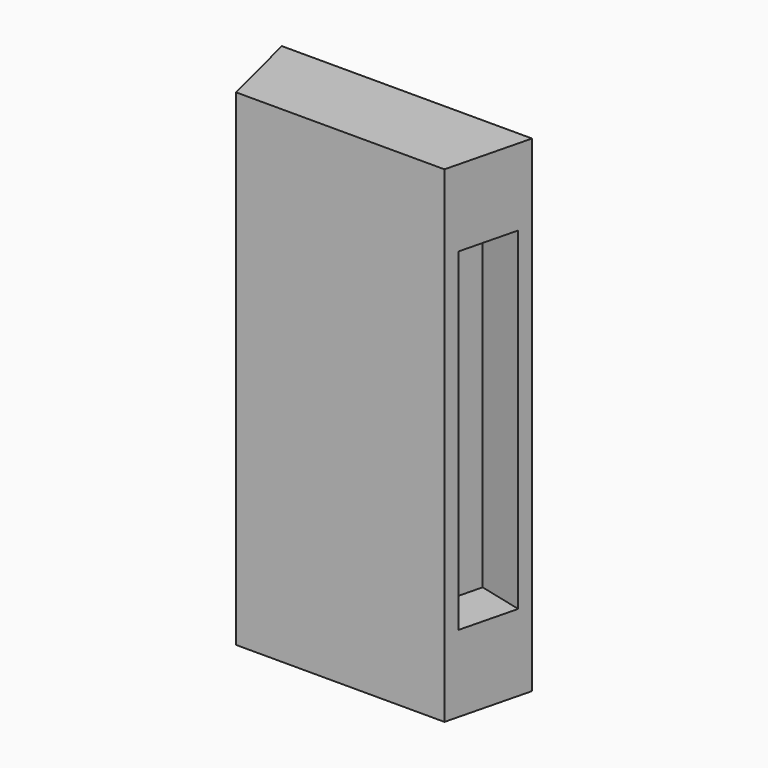
from build123d import *

# Parameters (mm, degrees)
F1_DEPTH = 1750
F2_W     = 835.971278
F2_H     = 1625.499708
F3_DEPTH = 5
F4_W     = 211.788026
F4_H     = 1198.5433
F5_DEPTH = 165


with BuildPart() as f1:
    # F0 (on Top) → F1 (new body)
    with BuildSketch(Plane.XY):
        Polygon((-488.9687, 205.970883), (-413.9687, -94.029117), (336.0313, -94.029117), (411.0313, 205.970883), (-38.9687, 205.970883), align=None)
    extrude(amount=F1_DEPTH)

    # F2 (on face) → F3 (cut)
    with BuildSketch(Plane(origin=(0, 205.970883, 0), x_dir=(-1, 0, 0), z_dir=(0, 1, 0))):
        with Locations((38.9687, 875)):
            Rectangle(F2_W, F2_H)
    extrude(amount=-F3_DEPTH, mode=Mode.SUBTRACT)

    # F4 (on face) → F5 (cut)
    with BuildSketch(Plane(origin=(338.389251, -84.597313, 0), x_dir=(0.242536, 0.970143, 0), z_dir=(0.970143, -0.242536, 0))):
        with Locations((144.89438, 875)):
            Rectangle(F4_W, F4_H)
    extrude(amount=-F5_DEPTH, mode=Mode.SUBTRACT)


solid = f1.part
